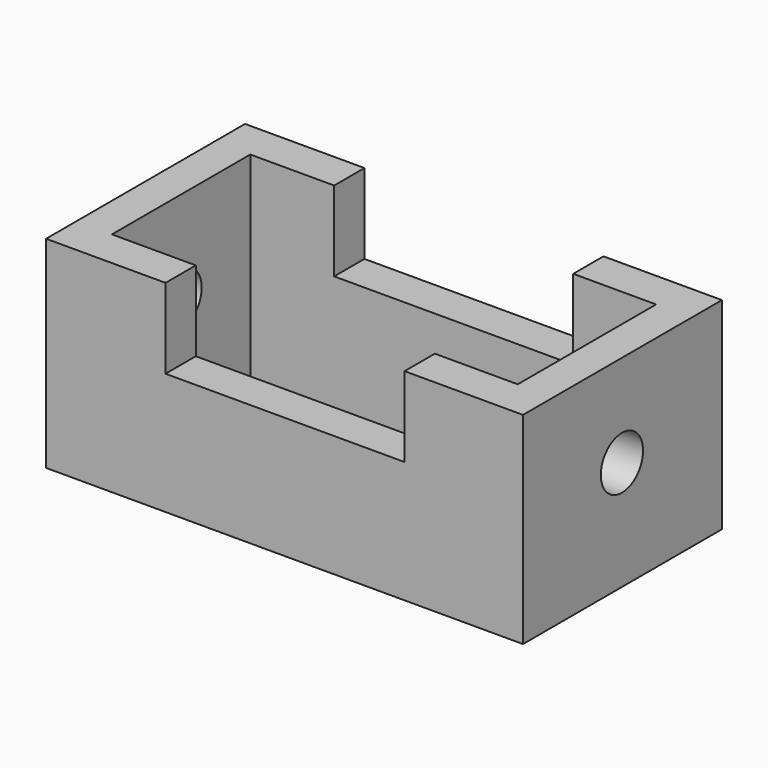
from build123d import *

# Parameters (mm, degrees)
F0_W     = 152.3013710976
F0_H     = 79.4126093388
F1_DEPTH = 64.4375029951
F2_W     = 129.606127739
F2_H     = 55.234760046
F3_DEPTH = 64.4385029951
F7_W     = 76.3396583498
F7_H     = 25.5502108485
F4_DEPTH = 79.4136093388
F5_R     = 8.4271514965
F6_DEPTH = 152.3023710976


with BuildPart() as f1:
    # F0 (on Top) → F1 (new body)
    with BuildSketch(Plane.XY):
        Rectangle(F0_W, F0_H)
    extrude(amount=F1_DEPTH)

    # F2 (on face) → F3 (cut, through all)
    with BuildSketch(Plane.XY.offset(64.4375029951)):
        Rectangle(F2_W, F2_H)
    extrude(amount=-F3_DEPTH, mode=Mode.SUBTRACT)

    # F7 (on face) → F4 (cut, through all)
    with BuildSketch(Plane.XZ.offset(39.7063046694)):
        with Locations((0.1601595432, 51.6623975709)):
            Rectangle(F7_W, F7_H)
    extrude(amount=-F4_DEPTH, mode=Mode.SUBTRACT)

    # F5 (on face) → F6 (cut, through all)
    with BuildSketch(Plane.YZ.offset(76.1506855488)):
        with Locations((-0.2117939293, 34.9230654538)):
            Circle(F5_R)
    extrude(amount=-F6_DEPTH, mode=Mode.SUBTRACT)


solid = f1.part
